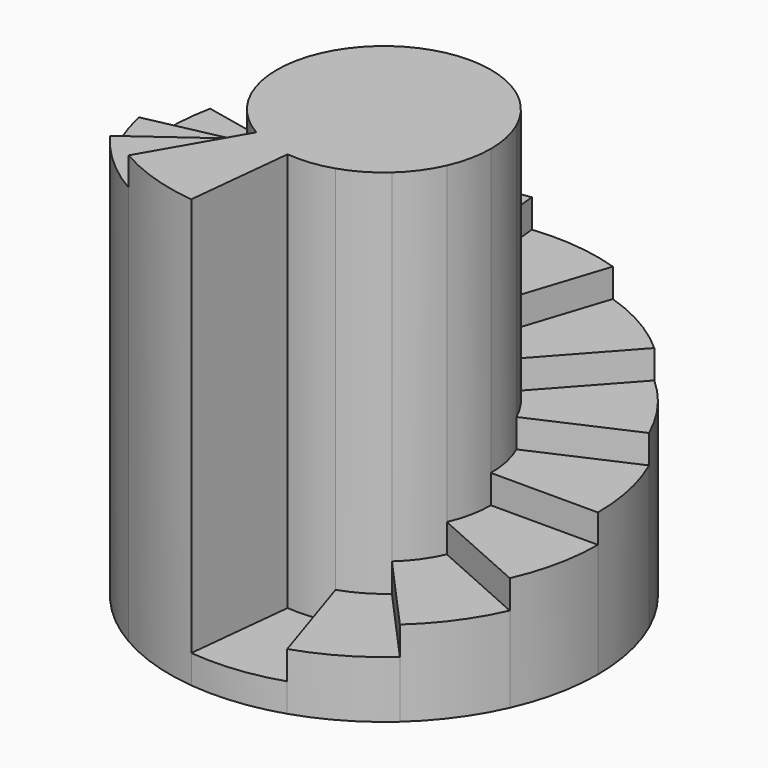
from build123d import *

# Parameters (mm, degrees)
F1_DEPTH  = 150
F2_DEPTH  = 10
F3_DEPTH  = 20
F4_DEPTH  = 30
F5_DEPTH  = 40
F6_DEPTH  = 50
F7_DEPTH  = 60
F8_DEPTH  = 70
F9_DEPTH  = 80
F10_DEPTH = 90
F11_DEPTH = 100
F12_DEPTH = 110
F13_DEPTH = 120
F14_DEPTH = 130
F15_DEPTH = 140
F16_DEPTH = 150


with BuildPart() as f1:
    # F0 (on Top) → F1 (new body)
    with BuildSketch(Plane.XY):
        with BuildLine():
            ThreePointArc((34.257955, -15.252624), (36.680535, -7.796688), (37.5, 0))
            ThreePointArc((37.5, 0), (36.680535, 7.796688), (34.257955, 15.252624))
            ThreePointArc((34.257955, 15.252624), (30.338137, 22.041947), (25.092398, 27.867931))
            ThreePointArc((25.092398, 27.867931), (18.75, 32.475953), (11.588137, 35.664619))
            ThreePointArc((11.588137, 35.664619), (3.919817, 37.294571), (-3.919817, 37.294571))
            ThreePointArc((-3.919817, 37.294571), (-11.588137, 35.664619), (-18.75, 32.475953))
            ThreePointArc((-18.75, 32.475953), (-25.092398, 27.867931), (-30.338137, 22.041947))
            ThreePointArc((-30.338137, 22.041947), (-34.257955, 15.252624), (-36.680535, 7.796688))
            ThreePointArc((-36.680535, 7.796688), (-37.5, 0), (-36.680535, -7.796688))
            ThreePointArc((-36.680535, -7.796688), (-34.257955, -15.252624), (-30.338137, -22.041947))
            ThreePointArc((-30.338137, -22.041947), (-25.092398, -27.867931), (-18.75, -32.475953))
            ThreePointArc((-18.75, -32.475953), (-11.588137, -35.664619), (-3.919817, -37.294571))
            ThreePointArc((-3.919817, -37.294571), (3.919817, -37.294571), (11.588137, -35.664619))
            ThreePointArc((11.588137, -35.664619), (18.75, -32.475953), (25.092398, -27.867931))
            ThreePointArc((25.092398, -27.867931), (30.338137, -22.041947), (34.257955, -15.252624))
        make_face()
    extrude(amount=F1_DEPTH)

    # F0 (on Top) → F2 (join)
    with BuildSketch(Plane.XY):
        with BuildLine():
            ThreePointArc((-7.839635, -74.589142), (7.839635, -74.589142), (23.176275, -71.329239))
            Line((23.176275, -71.329239), (11.588137, -35.664619))
            ThreePointArc((11.588137, -35.664619), (3.919817, -37.294571), (-3.919817, -37.294571))
            Line((-3.919817, -37.294571), (-7.839635, -74.589142))
        make_face()
    extrude(amount=F2_DEPTH)

    # F0 (on Top) → F3 (join)
    with BuildSketch(Plane.XY):
        with BuildLine():
            ThreePointArc((23.176275, -71.329239), (37.5, -64.951905), (50.184795, -55.735862))
            Line((50.184795, -55.735862), (25.092398, -27.867931))
            ThreePointArc((25.092398, -27.867931), (18.75, -32.475953), (11.588137, -35.664619))
            Line((11.588137, -35.664619), (23.176275, -71.329239))
        make_face()
    extrude(amount=F3_DEPTH)

    # F0 (on Top) → F4 (join)
    with BuildSketch(Plane.XY):
        with BuildLine():
            ThreePointArc((50.184795, -55.735862), (60.676275, -44.083894), (68.515909, -30.505248))
            Line((68.515909, -30.505248), (34.257955, -15.252624))
            ThreePointArc((34.257955, -15.252624), (30.338137, -22.041947), (25.092398, -27.867931))
            Line((25.092398, -27.867931), (50.184795, -55.735862))
        make_face()
    extrude(amount=F4_DEPTH)

    # F0 (on Top) → F5 (join)
    with BuildSketch(Plane.XY):
        with BuildLine():
            ThreePointArc((68.515909, -30.505248), (73.36107, -15.593377), (75, 0))
            Line((75, 0), (37.5, 0))
            ThreePointArc((37.5, 0), (36.680535, -7.796688), (34.257955, -15.252624))
            Line((34.257955, -15.252624), (68.515909, -30.505248))
        make_face()
    extrude(amount=F5_DEPTH)

    # F0 (on Top) → F6 (join)
    with BuildSketch(Plane.XY):
        with BuildLine():
            Line((37.5, 0), (75, 0))
            ThreePointArc((75, 0), (73.36107, 15.593377), (68.515909, 30.505248))
            Line((68.515909, 30.505248), (34.257955, 15.252624))
            ThreePointArc((34.257955, 15.252624), (36.680535, 7.796688), (37.5, 0))
        make_face()
    extrude(amount=F6_DEPTH)

    # F0 (on Top) → F7 (join)
    with BuildSketch(Plane.XY):
        with BuildLine():
            Line((34.257955, 15.252624), (68.515909, 30.505248))
            ThreePointArc((68.515909, 30.505248), (60.676275, 44.083894), (50.184795, 55.735862))
            Line((50.184795, 55.735862), (25.092398, 27.867931))
            ThreePointArc((25.092398, 27.867931), (30.338137, 22.041947), (34.257955, 15.252624))
        make_face()
    extrude(amount=F7_DEPTH)

    # F0 (on Top) → F8 (join)
    with BuildSketch(Plane.XY):
        with BuildLine():
            Line((25.092398, 27.867931), (50.184795, 55.735862))
            ThreePointArc((50.184795, 55.735862), (37.5, 64.951905), (23.176275, 71.329239))
            Line((23.176275, 71.329239), (11.588137, 35.664619))
            ThreePointArc((11.588137, 35.664619), (18.75, 32.475953), (25.092398, 27.867931))
        make_face()
    extrude(amount=F8_DEPTH)

    # F0 (on Top) → F9 (join)
    with BuildSketch(Plane.XY):
        with BuildLine():
            Line((11.588137, 35.664619), (23.176275, 71.329239))
            ThreePointArc((23.176275, 71.329239), (7.839635, 74.589142), (-7.839635, 74.589142))
            Line((-7.839635, 74.589142), (-3.919817, 37.294571))
            ThreePointArc((-3.919817, 37.294571), (3.919817, 37.294571), (11.588137, 35.664619))
        make_face()
    extrude(amount=F9_DEPTH)

    # F0 (on Top) → F10 (join)
    with BuildSketch(Plane.XY):
        with BuildLine():
            Line((-3.919817, 37.294571), (-7.839635, 74.589142))
            ThreePointArc((-7.839635, 74.589142), (-23.176275, 71.329239), (-37.5, 64.951905))
            Line((-37.5, 64.951905), (-18.75, 32.475953))
            ThreePointArc((-18.75, 32.475953), (-11.588137, 35.664619), (-3.919817, 37.294571))
        make_face()
    extrude(amount=F10_DEPTH)

    # F0 (on Top) → F11 (join)
    with BuildSketch(Plane.XY):
        with BuildLine():
            Line((-18.75, 32.475953), (-37.5, 64.951905))
            ThreePointArc((-37.5, 64.951905), (-50.184795, 55.735862), (-60.676275, 44.083894))
            Line((-60.676275, 44.083894), (-30.338137, 22.041947))
            ThreePointArc((-30.338137, 22.041947), (-25.092398, 27.867931), (-18.75, 32.475953))
        make_face()
    extrude(amount=F11_DEPTH)

    # F0 (on Top) → F12 (join)
    with BuildSketch(Plane.XY):
        with BuildLine():
            Line((-30.338137, 22.041947), (-60.676275, 44.083894))
            ThreePointArc((-60.676275, 44.083894), (-68.515909, 30.505248), (-73.36107, 15.593377))
            Line((-73.36107, 15.593377), (-36.680535, 7.796688))
            ThreePointArc((-36.680535, 7.796688), (-34.257955, 15.252624), (-30.338137, 22.041947))
        make_face()
    extrude(amount=F12_DEPTH)

    # F0 (on Top) → F13 (join)
    with BuildSketch(Plane.XY):
        with BuildLine():
            Line((-36.680535, 7.796688), (-73.36107, 15.593377))
            ThreePointArc((-73.36107, 15.593377), (-75, 0), (-73.36107, -15.593377))
            Line((-73.36107, -15.593377), (-36.680535, -7.796688))
            ThreePointArc((-36.680535, -7.796688), (-37.5, 0), (-36.680535, 7.796688))
        make_face()
    extrude(amount=F13_DEPTH)

    # F0 (on Top) → F14 (join)
    with BuildSketch(Plane.XY):
        with BuildLine():
            ThreePointArc((-73.36107, -15.593377), (-68.515909, -30.505248), (-60.676275, -44.083894))
            Line((-60.676275, -44.083894), (-30.338137, -22.041947))
            ThreePointArc((-30.338137, -22.041947), (-34.257955, -15.252624), (-36.680535, -7.796688))
            Line((-36.680535, -7.796688), (-73.36107, -15.593377))
        make_face()
    extrude(amount=F14_DEPTH)

    # F0 (on Top) → F15 (join)
    with BuildSketch(Plane.XY):
        with BuildLine():
            ThreePointArc((-60.676275, -44.083894), (-50.184795, -55.735862), (-37.5, -64.951905))
            Line((-37.5, -64.951905), (-18.75, -32.475953))
            ThreePointArc((-18.75, -32.475953), (-25.092398, -27.867931), (-30.338137, -22.041947))
            Line((-30.338137, -22.041947), (-60.676275, -44.083894))
        make_face()
    extrude(amount=F15_DEPTH)

    # F0 (on Top) → F16 (join)
    with BuildSketch(Plane.XY):
        with BuildLine():
            ThreePointArc((-37.5, -64.951905), (-23.176275, -71.329239), (-7.839635, -74.589142))
            Line((-7.839635, -74.589142), (-3.919817, -37.294571))
            ThreePointArc((-3.919817, -37.294571), (-11.588137, -35.664619), (-18.75, -32.475953))
            Line((-18.75, -32.475953), (-37.5, -64.951905))
        make_face()
    extrude(amount=F16_DEPTH)


solid = f1.part
